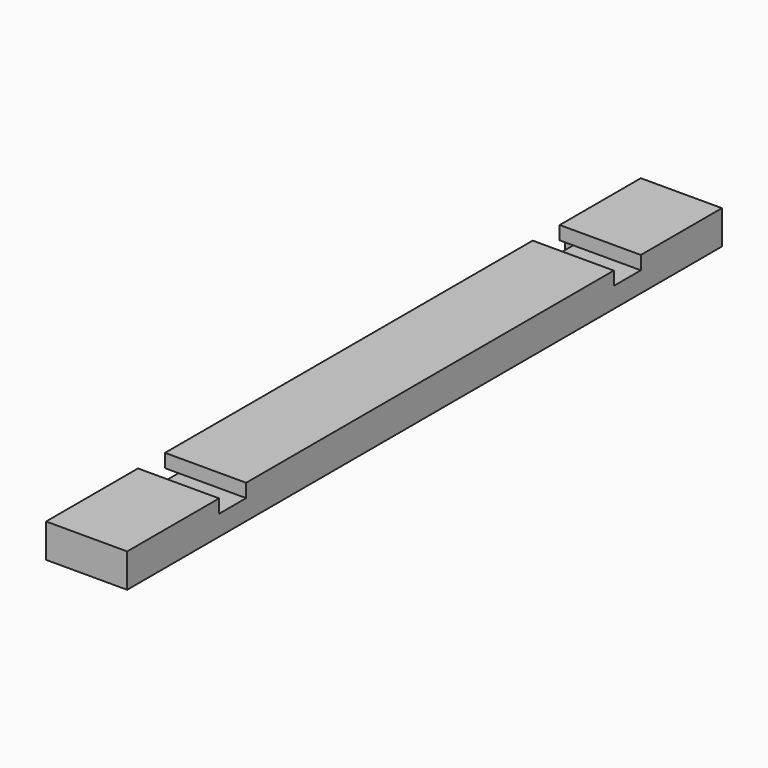
from build123d import *

# Parameters (mm, degrees)
F0_W     = 76.2
F0_H     = 31.75
F1_DEPTH = 698.5
F2_W     = 508
F2_H     = 19.05
F3_DEPTH = 12.7
F4_W     = 76.2
F4_H     = 31.75
F5_DEPTH = 12.7


with BuildPart() as f1:
    # F0 (on Front) → F1 (new body)
    with BuildSketch(Plane.XZ):
        with Locations((38.066154, 16.090209)):
            Rectangle(F0_W, F0_H)
    extrude(amount=F1_DEPTH)

    # F2 (on face) → F3 (cut)
    with BuildSketch(Plane(origin=(-0.033846, 0, 0), x_dir=(0, -1, 0), z_dir=(-1, 0, 0))):
        with Locations((342.9, 9.740209)):
            Rectangle(F2_W, F2_H)
    extrude(amount=-F3_DEPTH, mode=Mode.SUBTRACT)

    # F4 (on face) → F5 (cut)
    with BuildSketch(Plane.XY.offset(31.965209)):
        with Locations((38.066154, -574.675)):
            Rectangle(F4_W, F4_H)
        with Locations((38.066154, -111.125)):
            Rectangle(F4_W, F4_H)
    extrude(amount=-F5_DEPTH, mode=Mode.SUBTRACT)


solid = f1.part
